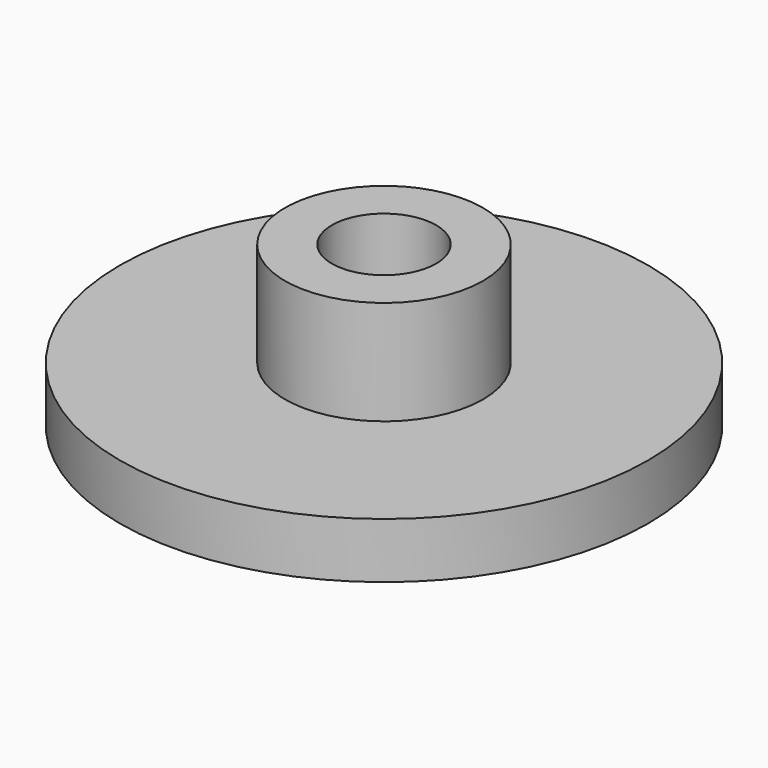
from build123d import *

# Parameters (mm, degrees)
F0_R     = 7.6
F1_DEPTH = 1.6
F2_R     = 2.85
F3_DEPTH = 3
F4_R     = 1.5
F5_DEPTH = 25
F6_SIZE  = 0.5


with BuildPart() as f1:
    # F0 (on Top) → F1 (new body)
    with BuildSketch(Plane.XY):
        Circle(F0_R)
    extrude(amount=F1_DEPTH)

    # F2 (on face) → F3 (join)
    with BuildSketch(Plane.XY.offset(1.6)):
        Circle(F2_R)
    extrude(amount=F3_DEPTH)

    # F4 (on face) → F5 (cut)
    with BuildSketch(Plane.XY.offset(4.6)):
        Circle(F4_R)
    extrude(amount=-F5_DEPTH, mode=Mode.SUBTRACT)

    # F6
    f6_edges = [f1.edges().sort_by_distance(p)[0] for p in [
        (-1.5, 0, 0),
    ]]
    chamfer(f6_edges, length=F6_SIZE)


solid = f1.part
